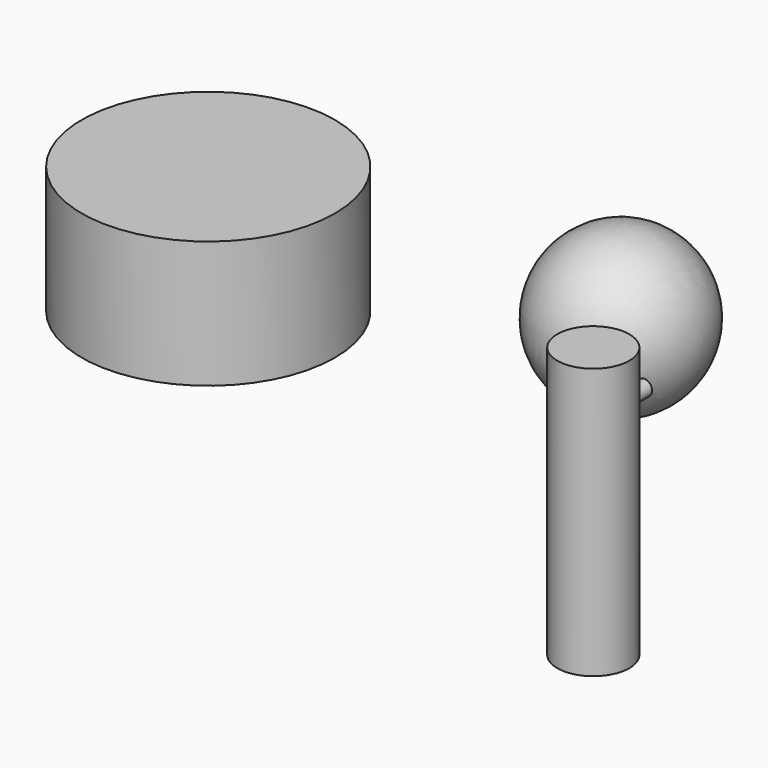
from build123d import *

# Parameters (mm, degrees)
F0_R      = 38.103316
F1_DEPTH  = 38.20366
F2_R      = 10.825566
F3_DEPTH  = 33.66042
F6_R      = 2.373367
F7_DEPTH  = 25.4
F3_FACE_R = 10.825566
F9_DEPTH  = 81.43847


with BuildPart() as f1:
    # F0 (on Top) → F1 (new body)
    with BuildSketch(Plane.XY):
        with Locations((-43.487839, -57.736404)):
            Circle(F0_R)
    extrude(amount=F1_DEPTH)


with BuildPart() as f3:
    # F2 (on Top) → F3 (new body)
    with BuildSketch(Plane.XY):
        with Locations((79.133421, -66.241078)):
            Circle(F2_R)
    extrude(amount=F3_DEPTH)



with BuildPart() as f5:
    # F4 (on Top) → F5 (revolve)
    with BuildSketch(Plane.XY):
        with BuildLine():
            Line((10.700573, 0), (58.141831, 0))
            ThreePointArc((58.141831, 0), (34.421202, 23.812941), (10.700573, 0))
        make_face()
    revolve(axis=Axis((34.421202, 0, 0), (1, 0, 0)))


with BuildPart() as f7:
    # F6 (on Front) → F7 (new body)
    with BuildSketch(Plane.XZ):
        with Locations((0, -45.414068)):
            Circle(F6_R)
    extrude(amount=F7_DEPTH)


with BuildPart() as f7_1:
    # F8: moved
    add(f7.part.moved(Location((74.81455, -41.68679, 57.03454))))


with BuildPart() as f3_1:
    add(f3.part)

    add(f7_1.part)  # F9 merges F7
    # F3_face (on face) → F9 (join)
    with BuildSketch(Plane(origin=(79.133421, -66.241078, 33.66042), x_dir=(1, 0, 0), z_dir=(0, 0, 1))):
        Circle(F3_FACE_R)
    extrude(amount=-F9_DEPTH)


solid = Compound([f1.part, f5.part, f3_1.part])
